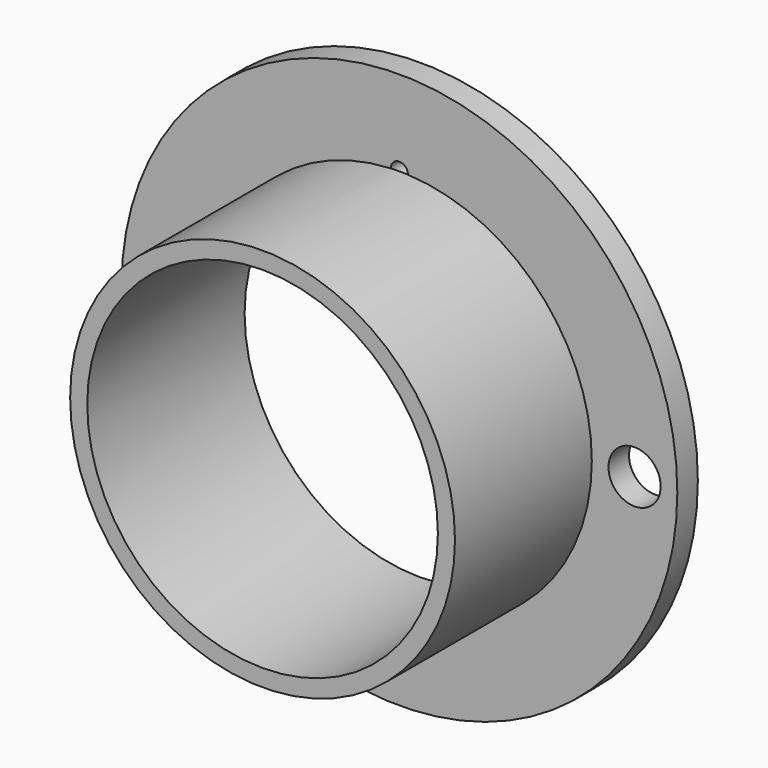
from build123d import *

# Parameters (mm, degrees)
F0_R     = 32.5
F1_DEPTH = 3
F2_R     = 22.5
F3_DEPTH = 20
F4_R     = 20.5
F5_DEPTH = 23.001
F6_R     = 3.05
F6_R_2   = 1
F7_DEPTH = 3.001


with BuildPart() as f1:
    # F0 (on Front) → F1 (new body)
    with BuildSketch(Plane.XZ):
        Circle(F0_R)
    extrude(amount=F1_DEPTH)

    # F2 (on face) → F3 (join)
    with BuildSketch(Plane.XZ.offset(3)):
        Circle(F2_R)
    extrude(amount=F3_DEPTH)

    # F4 (on face) → F5 (cut, through all)
    with BuildSketch(Plane.XZ.offset(23)):
        Circle(F4_R)
    extrude(amount=-F5_DEPTH, mode=Mode.SUBTRACT)

    # F6 (on face) → F7 (cut, through all)
    with BuildSketch(Plane.XZ.offset(3)):
        with Locations((27.5, 0)):
            Circle(F6_R)
        with Locations((-27.5, 0)):
            Circle(F6_R)
        with Locations((0, 22.5)):
            Circle(F6_R_2)
    extrude(amount=-F7_DEPTH, mode=Mode.SUBTRACT)


solid = f1.part
